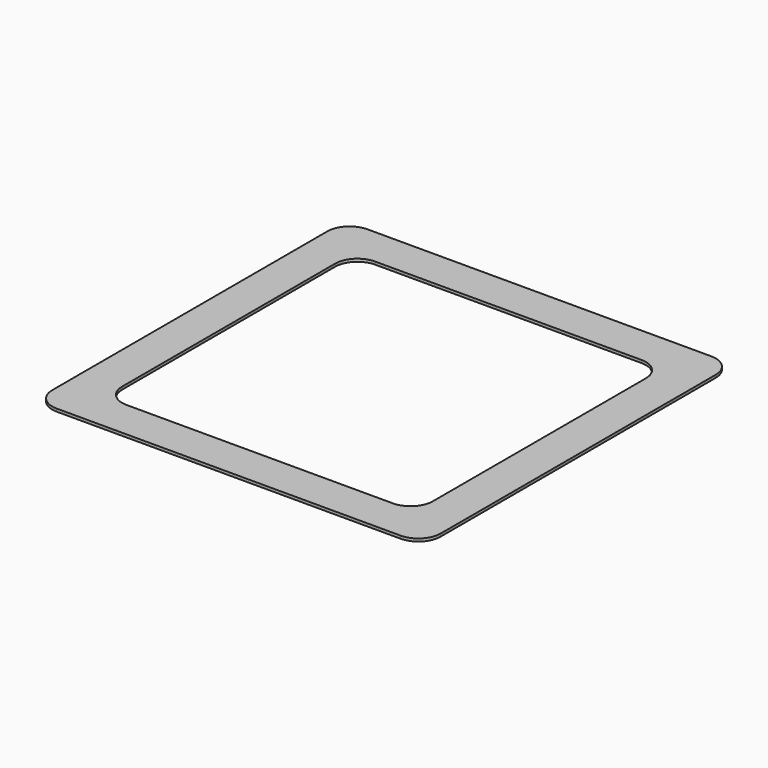
from build123d import *

# Parameters (mm, degrees)
F0_W     = 56
F0_H     = 56
F1_DEPTH = 0.5
F2_R     = 4


with BuildPart() as f1:
    # F0 (on Top) → F1 (new body)
    with BuildSketch(Plane.XY):
        with BuildLine():
            Line((27.535898, 33), (-27.535898, 33))
            ThreePointArc((-27.535898, 33), (-27.136297, 32.035276), (-27, 31))
            ThreePointArc((-27, 31), (-29, 27.535898), (-33, 27.535898))
            Line((-33, 27.535898), (-33, -27.535898))
            ThreePointArc((-33, -27.535898), (-29, -27.535898), (-27, -31))
            ThreePointArc((-27, -31), (-27.136297, -32.035276), (-27.535898, -33))
            Line((-27.535898, -33), (27.535898, -33))
            ThreePointArc((27.535898, -33), (28.171573, -28.171573), (33, -27.535898))
            Line((33, -27.535898), (33, 27.535898))
            ThreePointArc((33, 27.535898), (28.171573, 28.171573), (27.535898, 33))
        make_face()
        Rectangle(F0_W, F0_H, mode=Mode.SUBTRACT)
        with BuildLine():
            Line((31, 35), (-31, 35))
            ThreePointArc((-31, 35), (-29, 34.464102), (-27.535898, 33))
            Line((-27.535898, 33), (27.535898, 33))
            ThreePointArc((27.535898, 33), (29, 34.464102), (31, 35))
        make_face()
        with BuildLine():
            ThreePointArc((35, 31), (33.828427, 33.828427), (31, 35))
            ThreePointArc((31, 35), (29, 34.464102), (27.535898, 33))
            ThreePointArc((27.535898, 33), (28.171573, 28.171573), (33, 27.535898))
            ThreePointArc((33, 27.535898), (34.464102, 29), (35, 31))
        make_face()
        with BuildLine():
            Line((35, -31), (35, 31))
            ThreePointArc((35, 31), (34.464102, 29), (33, 27.535898))
            Line((33, 27.535898), (33, -27.535898))
            ThreePointArc((33, -27.535898), (34.464102, -29), (35, -31))
        make_face()
        with BuildLine():
            ThreePointArc((31, -35), (33.828427, -33.828427), (35, -31))
            ThreePointArc((35, -31), (34.464102, -29), (33, -27.535898))
            ThreePointArc((33, -27.535898), (28.171573, -28.171573), (27.535898, -33))
            ThreePointArc((27.535898, -33), (29, -34.464102), (31, -35))
        make_face()
        with BuildLine():
            ThreePointArc((-27.535898, -33), (-29, -34.464102), (-31, -35))
            Line((-31, -35), (31, -35))
            ThreePointArc((31, -35), (29, -34.464102), (27.535898, -33))
            Line((27.535898, -33), (-27.535898, -33))
        make_face()
        with BuildLine():
            ThreePointArc((-33, 27.535898), (-34.464102, 29), (-35, 31))
            Line((-35, 31), (-35, -31))
            ThreePointArc((-35, -31), (-34.464102, -29), (-33, -27.535898))
            Line((-33, -27.535898), (-33, 27.535898))
        make_face()
        with BuildLine():
            ThreePointArc((-33, -27.535898), (-34.464102, -29), (-35, -31))
            ThreePointArc((-35, -31), (-33.828427, -33.828427), (-31, -35))
            ThreePointArc((-31, -35), (-29, -34.464102), (-27.535898, -33))
            ThreePointArc((-27.535898, -33), (-27.136297, -32.035276), (-27, -31))
            ThreePointArc((-27, -31), (-29, -27.535898), (-33, -27.535898))
        make_face()
        with BuildLine():
            ThreePointArc((-27.535898, 33), (-29, 34.464102), (-31, 35))
            ThreePointArc((-31, 35), (-33.828427, 33.828427), (-35, 31))
            ThreePointArc((-35, 31), (-34.464102, 29), (-33, 27.535898))
            ThreePointArc((-33, 27.535898), (-29, 27.535898), (-27, 31))
            ThreePointArc((-27, 31), (-27.136297, 32.035276), (-27.535898, 33))
        make_face()
    extrude(amount=-F1_DEPTH)

    # F2
    f2_edges = [f1.edges().sort_by_distance(p)[0] for p in [
        (-28, -28, -0.25),
        (-28, 28, -0.25),
        (28, 28, -0.25),
        (28, -28, -0.25),
    ]]
    fillet(f2_edges, radius=F2_R)


solid = f1.part
